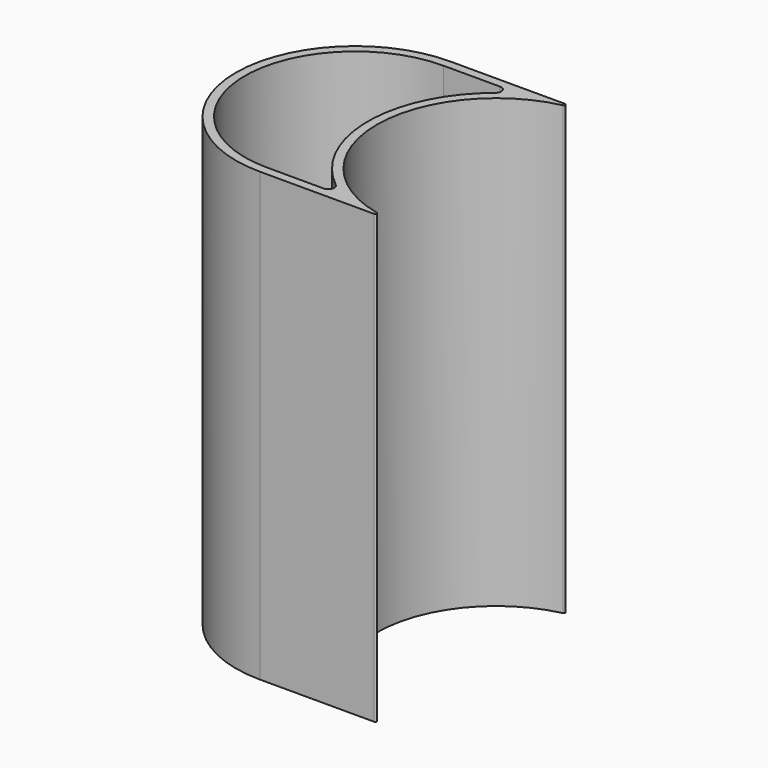
from build123d import *

# Parameters (mm, degrees)
F1_DEPTH = 150


with BuildPart() as f1:
    # F0 (on Top) → F1 (new body)
    with BuildSketch(Plane.XY):
        with BuildLine():
            ThreePointArc((-62.509962, -36.084558), (-93.676113, 2.927788), (-62.509962, 41.940134))
            ThreePointArc((-62.509962, 41.940134), (-62.123481, 42.483344), (-62.620385, 42.927788))
            Line((-62.620385, 42.927788), (-100.961201, 42.927788))
            ThreePointArc((-100.961201, 42.927788), (-140.961201, 2.927788), (-100.961201, -37.072212))
            Line((-100.961201, -37.072212), (-62.620385, -37.072212))
            ThreePointArc((-62.620385, -37.072212), (-62.123481, -36.627767), (-62.509962, -36.084558))
        make_face()
        with BuildLine():
            ThreePointArc((-100.961201, -34.072212), (-137.961201, 2.927788), (-100.961201, 39.927788))
            Line((-100.961201, 39.927788), (-81.960385, 39.927788))
            ThreePointArc((-81.960385, 39.927788), (-80.074767, 38.594455), (-80.703306, 36.372233))
            ThreePointArc((-80.703306, 36.372233), (-96.676113, 2.927788), (-80.703306, -30.516656))
            ThreePointArc((-80.703306, -30.516656), (-80.074767, -32.738879), (-81.960385, -34.072212))
            Line((-81.960385, -34.072212), (-100.961201, -34.072212))
        make_face(mode=Mode.SUBTRACT)
    extrude(amount=F1_DEPTH)


solid = f1.part
